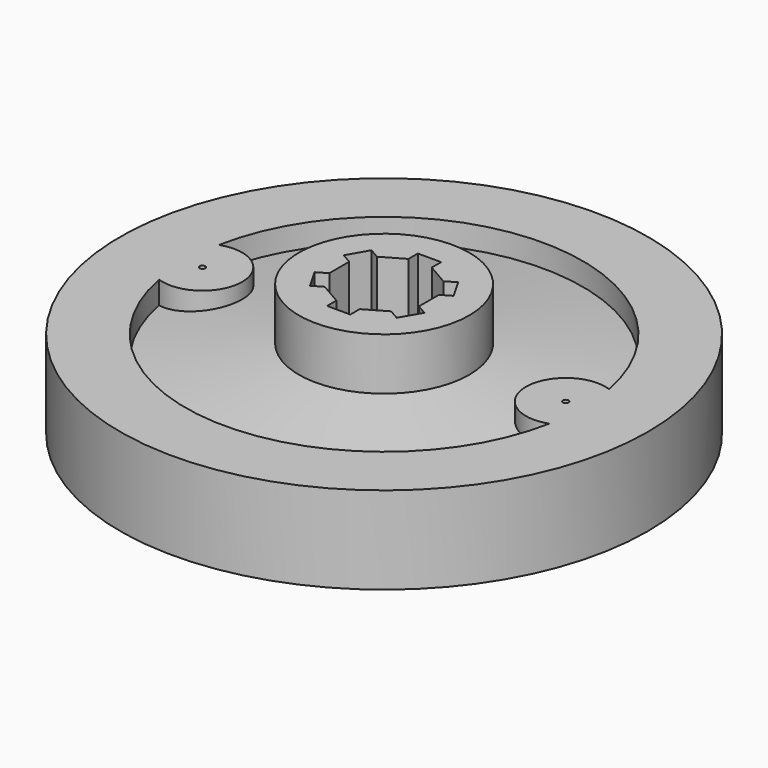
from build123d import *

# Parameters (mm, degrees)
F0_R     = 23.25
F1_DEPTH = 7.7
F5_R     = 7.5
F6_DEPTH = 8.8
F8_DEPTH = 11.601
F9_R     = 3.5
F9_R_2   = 0.25


with BuildPart() as f1:
    # F0 (on Top) → F1 (new body)
    with BuildSketch(Plane.XY):
        Circle(F0_R)
    extrude(amount=F1_DEPTH)

    # F2 (on Front) → F3 (revolve, cut)
    with BuildSketch(Plane.XZ):
        Polygon((17.5, 5.7), (17.5, 11.6), (7.5, 11.6), (0, 11.6), (0, 7.975), align=None)
        Polygon((17.5, 2), (0, 4.275), (0, 0), (0, -2.8375450056), (17.5, -2.8375450056), align=None)
    revolve(axis=Axis((0, 0, 5.8), (0, 0, 1)), mode=Mode.SUBTRACT)

    # F5 (on offset) → F6 (join)
    with BuildSketch(Plane.XY.offset(11.6)):
        Circle(F5_R)
    extrude(amount=-F6_DEPTH)

    # F7 (on offset) → F8 (cut, through all)
    with BuildSketch(Plane.XY.offset(11.6)):
        Polygon((1.025, 3.9692831007), (0, 4.5610671266), (-1.025, 3.9692831007), (-2.925, 2.8723175892), (-3.95, 2.2805335633), (-3.95, 1.0969655115), (-3.95, -1.0969655115), (-3.95, -2.2805335633), (-2.925, -2.8723175892), (-1.025, -3.9692831007), (0, -4.5610671266), (1.025, -3.9692831007), (2.925, -2.8723175892), (3.95, -2.2805335633), (3.95, -1.0969655115), (3.95, 1.0969655115), (3.95, 2.2805335633), (2.925, 2.8723175892), align=None)
        Polygon((-1.025, 3.9692831007), (0, 4.5610671266), (1.025, 3.9692831007), (1.025, 5), (-1.025, 5), align=None)
        Polygon((3.8176270189, 3.3876760389), (2.925, 2.8723175892), (3.95, 2.2805335633), (3.95, 1.0969655115), (4.8426270189, 1.6123239611), align=None)
        Polygon((4.8426270189, -1.6123239611), (3.95, -1.0969655115), (3.95, -2.2805335633), (2.925, -2.8723175892), (3.8176270189, -3.3876760389), align=None)
        Polygon((1.025, -5), (1.025, -3.9692831007), (0, -4.5610671266), (-1.025, -3.9692831007), (-1.025, -5), align=None)
        Polygon((-3.95, -2.2805335633), (-3.95, -1.0969655115), (-4.8426270189, -1.6123239611), (-3.8176270189, -3.3876760389), (-2.925, -2.8723175892), align=None)
        Polygon((-3.95, 2.2805335633), (-2.925, 2.8723175892), (-3.8176270189, 3.3876760389), (-4.8426270189, 1.6123239611), (-3.95, 1.0969655115), align=None)
    extrude(amount=-F8_DEPTH, mode=Mode.SUBTRACT)

    # F9 (on face) → F10 (join, up to the next surface of F1)
    with BuildSketch(Plane.XY.offset(7.7)):
        with Locations((-16, 0)):
            Circle(F9_R)
        with Locations((-16, 0)):
            Circle(F9_R_2, mode=Mode.SUBTRACT)
        with BuildLine():
            ThreePointArc((19.5, 0), (16, 3.5), (12.5, 0))
            ThreePointArc((12.5, 0), (16, -3.5), (19.5, 0))
        make_face()
        with BuildLine():
            ThreePointArc((16.25, 0), (16, -0.25), (15.75, 0))
            ThreePointArc((15.75, 0), (16, 0.25), (16.25, 0))
        make_face(mode=Mode.SUBTRACT)
    extrude(until=Until.NEXT, dir=(0, 0, -1))


solid = f1.part
